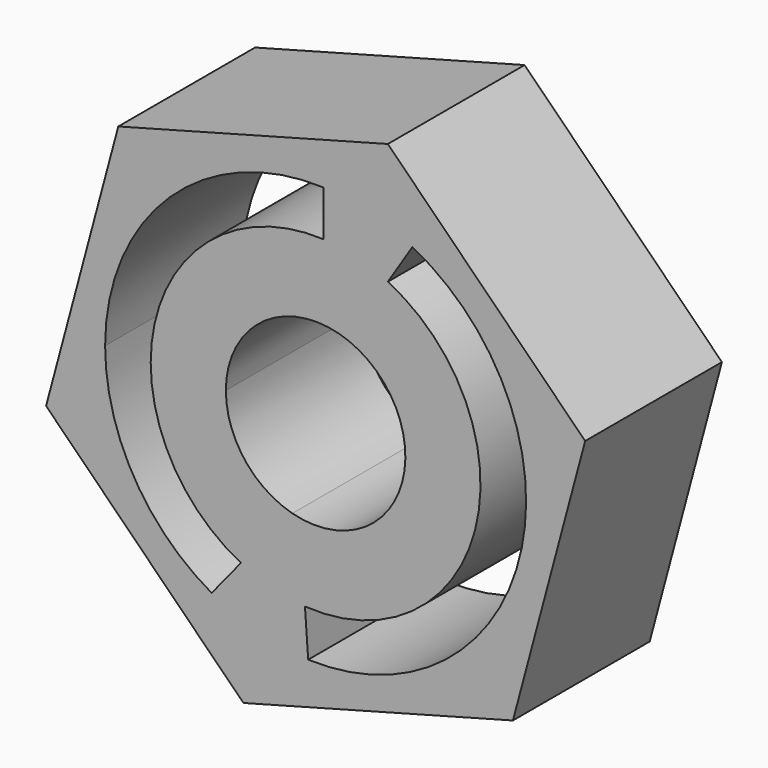
from build123d import *

# Parameters (mm, degrees)
F1_DEPTH = 7.62
F3_DEPTH = 7.62
F5_DEPTH = 7.62


with BuildPart() as f1:
    # F0 (on Front) → F1 (new body)
    with BuildSketch(Plane.XZ):
        Polygon((-0.68674681, 15.9189414907), (-9.4810585093, 24.71325319), (-21.4943116993, 21.4943116993), (-24.71325319, 9.4810585093), (-15.9189414907, 0.68674681), (-3.9056883007, 3.9056883007), align=None)
    extrude(amount=F1_DEPTH)

    # F2 (on face) → F3 (cut)
    with BuildSketch(Plane(origin=(0, 0, 0), x_dir=(-1, 0, 0), z_dir=(0, 1, 0))):
        with BuildLine():
            Line((13.7354055899, 8.8358137319), (11.6645944101, 16.5641862681))
            ThreePointArc((11.6645944101, 16.5641862681), (8.8358137319, 11.6645944101), (13.7354055899, 8.8358137319))
        make_face()
        with BuildLine():
            ThreePointArc((16.7005, 12.7), (15.1353500967, 15.8738100378), (11.6645944101, 16.5641862681))
            Line((11.6645944101, 16.5641862681), (13.7354055899, 8.8358137319))
            ThreePointArc((13.7354055899, 8.8358137319), (15.8738100378, 10.2646499033), (16.7005, 12.7))
        make_face()
    extrude(amount=-F3_DEPTH, mode=Mode.SUBTRACT)

    # F4 (on face) → F5 (cut)
    with BuildSketch(Plane(origin=(0, 0, 0), x_dir=(-1, 0, 0), z_dir=(0, 1, 0))):
        with BuildLine():
            Line((9.4810585093, 19.3075097995), (8.38471647, 21.0305488332))
            ThreePointArc((8.38471647, 21.0305488332), (3.6253777463, 10.3186250274), (13.0313017042, 3.323969124))
            Line((13.0313017042, 3.323969124), (13.1753263628, 5.3655037719))
            ThreePointArc((13.1753263628, 5.3655037719), (5.5953016242, 10.8174402904), (9.4810585093, 19.3075097995))
        make_face()
        with BuildLine():
            ThreePointArc((17.3331181487, 4.5419406703), (20.808239175, 7.9802358864), (22.0818823168, 12.7))
            ThreePointArc((22.0818823168, 12.7), (19.2078073532, 19.4578220797), (12.3464885615, 22.0752197558))
            Line((12.3464885615, 22.0752197558), (12.3464885615, 20.0413758747))
            ThreePointArc((12.3464885615, 20.0413758747), (17.7706263223, 18.0206690154), (20.0498823168, 12.7))
            ThreePointArc((20.0498823168, 12.7), (18.9642836617, 8.8555858343), (16.0281797534, 6.1468336203))
            Line((16.0281797534, 6.1468336203), (17.3331181487, 4.5419406703))
        make_face()
    extrude(amount=-F5_DEPTH, mode=Mode.SUBTRACT)


solid = f1.part
